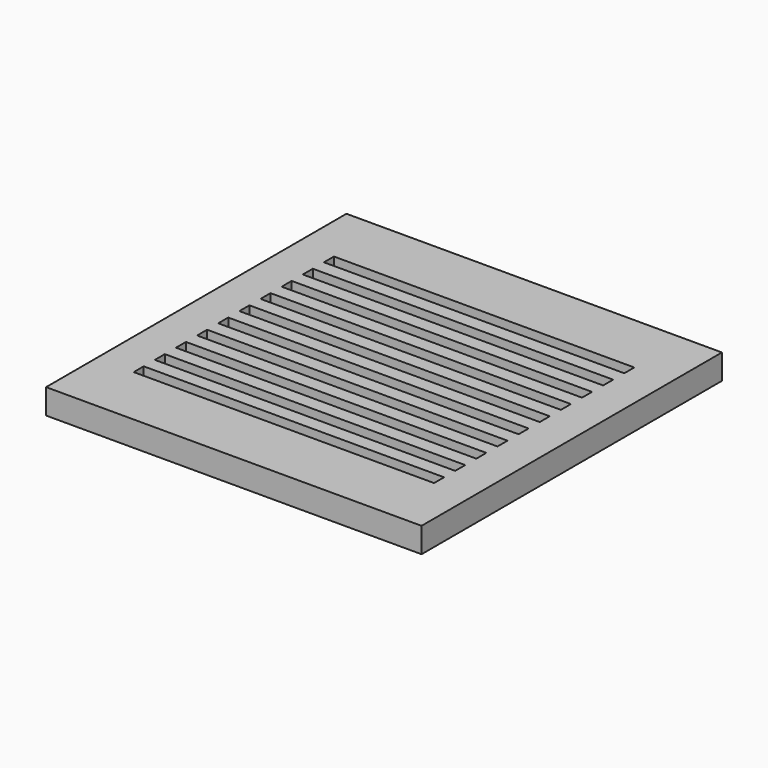
from build123d import *

# Parameters (mm, degrees)
F0_W     = 150
F0_H     = 150
F0_W_2   = 120
F0_H_2   = 5
F1_DEPTH = 10


with BuildPart() as f1:
    # F0 (on Top) → F1 (new body)
    with BuildSketch(Plane.XY):
        Rectangle(F0_W, F0_H)
        with Locations((0, -47.5)):
            Rectangle(F0_W_2, F0_H_2, mode=Mode.SUBTRACT)
        with Locations((0, -36.944444)):
            Rectangle(F0_W_2, F0_H_2, mode=Mode.SUBTRACT)
        with Locations((0, -26.388889)):
            Rectangle(F0_W_2, F0_H_2, mode=Mode.SUBTRACT)
        with Locations((0, -15.833333)):
            Rectangle(F0_W_2, F0_H_2, mode=Mode.SUBTRACT)
        with Locations((0, -5.277778)):
            Rectangle(F0_W_2, F0_H_2, mode=Mode.SUBTRACT)
        with Locations((0, 5.277778)):
            Rectangle(F0_W_2, F0_H_2, mode=Mode.SUBTRACT)
        with Locations((0, 15.833333)):
            Rectangle(F0_W_2, F0_H_2, mode=Mode.SUBTRACT)
        with Locations((0, 26.388889)):
            Rectangle(F0_W_2, F0_H_2, mode=Mode.SUBTRACT)
        with Locations((0, 36.944444)):
            Rectangle(F0_W_2, F0_H_2, mode=Mode.SUBTRACT)
        with Locations((0, 47.5)):
            Rectangle(F0_W_2, F0_H_2, mode=Mode.SUBTRACT)
    extrude(amount=F1_DEPTH)


solid = f1.part
